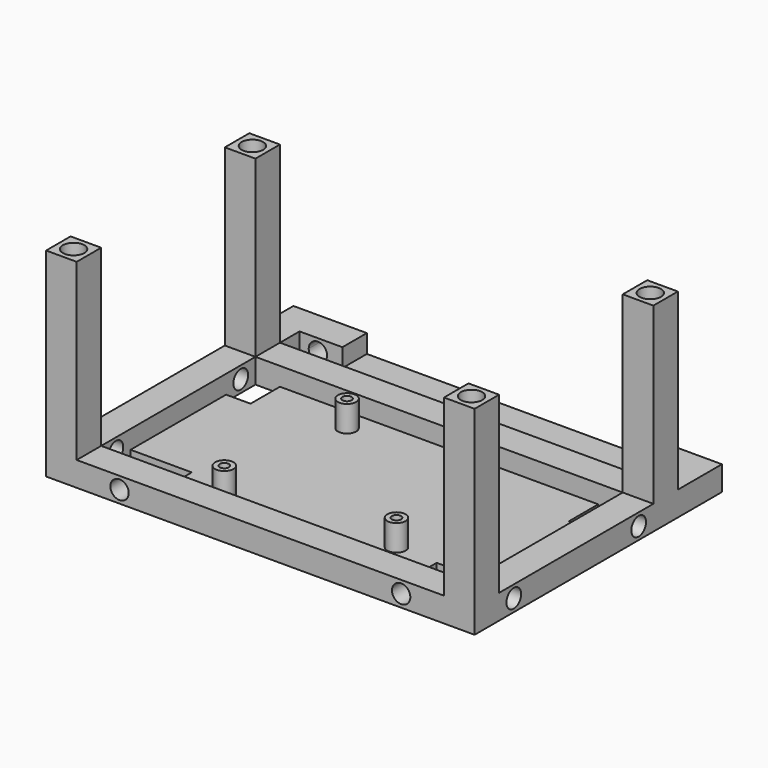
from build123d import *

# Parameters (mm, degrees)
F0_W      = 10
F0_H      = 10
F1_DEPTH  = 60
F3_W      = 10
F3_H      = 8
F3_W_2    = 120
F3_H_2    = 63
F3_H_3    = 10
F3_W_3    = 14
F4_DEPTH  = 8
F6_DEPTH  = 2
F7_R      = 3
F7_R_2    = 1.5
F8_DEPTH  = 10.5
F9_R      = 3.5
F10_DEPTH = 75
F11_R     = 3
F12_DEPTH = 10
F13_R     = 3
F14_DEPTH = 10
F16_DEPTH = 10
F18_DEPTH = 10


with BuildPart() as f1:
    # F0 (on Top) → F1 (new body)
    with BuildSketch(Plane.XY):
        with Locations((-65, 28)):
            Rectangle(F0_W, F0_H)
        with Locations((65, 28)):
            Rectangle(F0_W, F0_H)
        with Locations((-65, -45)):
            Rectangle(F0_W, F0_H)
        with Locations((65, -45)):
            Rectangle(F0_W, F0_H)
    extrude(amount=-F1_DEPTH)

    # F3 (on offset) → F4 (join)
    with BuildSketch(Plane.XY.offset(-65)):
        with Locations((-65, 37)):
            Rectangle(F3_W, F3_H)
        Polygon((-60, 33), (-70, 33), (-70, 23), (-70, -40), (-70, -50), (-60, -50), (60, -50), (70, -50), (70, -40), (70, 23), (70, 33), (60, 33), align=None)
        with Locations((0, -8.5)):
            Rectangle(F3_W_2, F3_H_2, mode=Mode.SUBTRACT)
        with Locations((-65, 46)):
            Rectangle(F3_W, F3_H_3)
        with Locations((65, 37)):
            Rectangle(F3_W, F3_H)
        with Locations((-53, 46)):
            Rectangle(F3_W_3, F3_H_3)
        with Locations((53, 46)):
            Rectangle(F3_W_3, F3_H_3)
        with Locations((65, 46)):
            Rectangle(F3_W, F3_H_3)
    extrude(amount=F4_DEPTH)

    # F5 (on offset) → F6 (join)
    with BuildSketch(Plane.XY.offset(-65)):
        Polygon((-48, 33), (-52, 33), (-52, 11), (-60, 11), (-60, -28), (-40, -28), (-40, -40), (40, -40), (40, -28), (60, -28), (60, 11), (52, 11), (52, 33), (48, 33), (48, 41), (46, 41), (46, 51), (-46, 51), (-46, 41), (-48, 41), align=None)
    extrude(amount=F6_DEPTH)

    # F7 (on offset) → F8 (join)
    with BuildSketch(Plane.XY.offset(-65)):
        with Locations((-24.34509, 15.832442)):
            Circle(F7_R)
        with Locations((-24.34509, 15.832442)):
            Circle(F7_R_2, mode=Mode.SUBTRACT)
        with Locations((26.337272, 0.330886)):
            Circle(F7_R)
        with Locations((26.337272, 0.330886)):
            Circle(F7_R_2, mode=Mode.SUBTRACT)
        with Locations((26.613058, -27.667755)):
            Circle(F7_R)
        with Locations((26.613058, -27.667755)):
            Circle(F7_R_2, mode=Mode.SUBTRACT)
        with Locations((-25.65, -32.65)):
            Circle(F7_R)
        with Locations((-25.65, -32.65)):
            Circle(F7_R_2, mode=Mode.SUBTRACT)
    extrude(amount=F8_DEPTH)

    # F9 (on Top) → F10 (cut)
    with BuildSketch(Plane.XY):
        with Locations((-65, 28)):
            Circle(F9_R)
        with Locations((-65, -45)):
            Circle(F9_R)
        with Locations((65, -45)):
            Circle(F9_R)
        with Locations((65, 28)):
            Circle(F9_R)
    extrude(amount=-F10_DEPTH, mode=Mode.SUBTRACT)

    # F11 (on face) → F12 (cut)
    with BuildSketch(Plane.YZ.offset(70)):
        with Locations((-34, -61)):
            Circle(F11_R)
        with Locations((17, -61)):
            Circle(F11_R)
    extrude(amount=-F12_DEPTH, mode=Mode.SUBTRACT)

    # F13 (on face) → F14 (cut)
    with BuildSketch(Plane(origin=(-70, 0, 0), x_dir=(0, -1, 0), z_dir=(-1, 0, 0))):
        with Locations((-17, -61)):
            Circle(F13_R)
        with Locations((34, -61)):
            Circle(F13_R)
    extrude(amount=-F14_DEPTH, mode=Mode.SUBTRACT)

    # F15 (on face) → F16 (cut)
    with BuildSketch(Plane.XZ.offset(50)):
        with BuildLine():
            ThreePointArc((-46, -58), (-48.12132, -63.12132), (-43, -61))
            ThreePointArc((-43, -61), (-43.87868, -58.87868), (-46, -58))
        make_face()
        with BuildLine():
            ThreePointArc((46, -58), (43.87868, -63.12132), (49, -61))
            ThreePointArc((49, -61), (48.12132, -58.87868), (46, -58))
        make_face()
    extrude(amount=-F16_DEPTH, mode=Mode.SUBTRACT)

    # F17 (on face) → F18 (cut)
    with BuildSketch(Plane(origin=(0, 51, 0), x_dir=(-1, 0, 0), z_dir=(0, 1, 0))):
        with BuildLine():
            ThreePointArc((-54, -58), (-56.12132, -63.12132), (-51, -61))
            ThreePointArc((-51, -61), (-51.87868, -58.87868), (-54, -58))
        make_face()
        with BuildLine():
            ThreePointArc((54, -58), (51.87868, -63.12132), (57, -61))
            ThreePointArc((57, -61), (56.12132, -58.87868), (54, -58))
        make_face()
    extrude(amount=-F18_DEPTH, mode=Mode.SUBTRACT)


solid = f1.part
